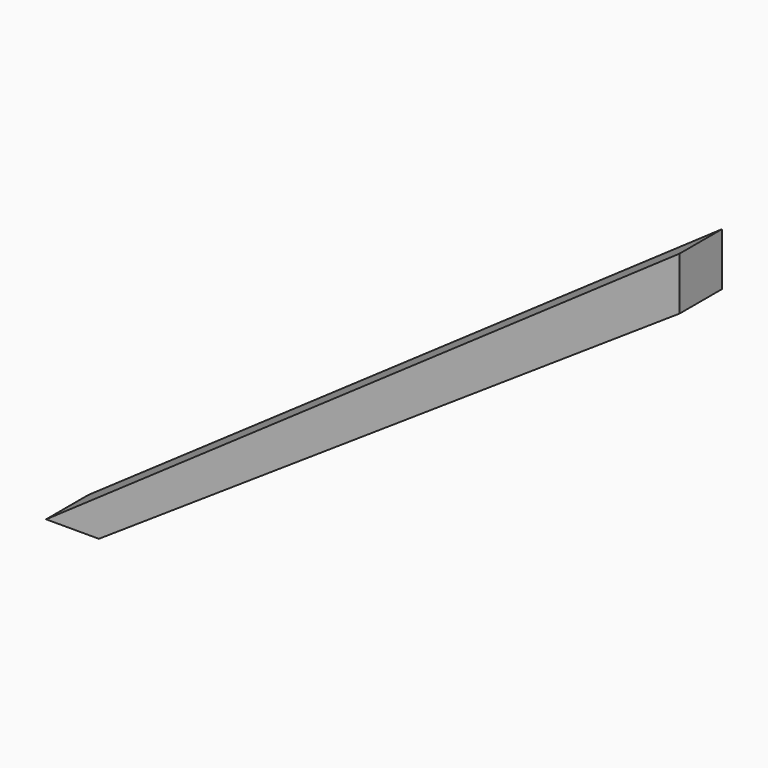
from build123d import *

# Parameters (mm, degrees)
F1_DEPTH = 76.2
F3_DEPTH = 127


with BuildPart() as f1:
    # F0 (on Front) → F1 (new body)
    with BuildSketch(Plane.XZ):
        Polygon((914.4, 635), (0, 0), (914.4, 0), align=None)
    extrude(amount=F1_DEPTH)

    # F2 (on face) → F3 (cut)
    with BuildSketch(Plane.XZ.offset(76.2)):
        Polygon((76.2, 0), (914.4, 0), (914.4, 558.8), align=None)
    extrude(amount=-F3_DEPTH, mode=Mode.SUBTRACT)


solid = f1.part
